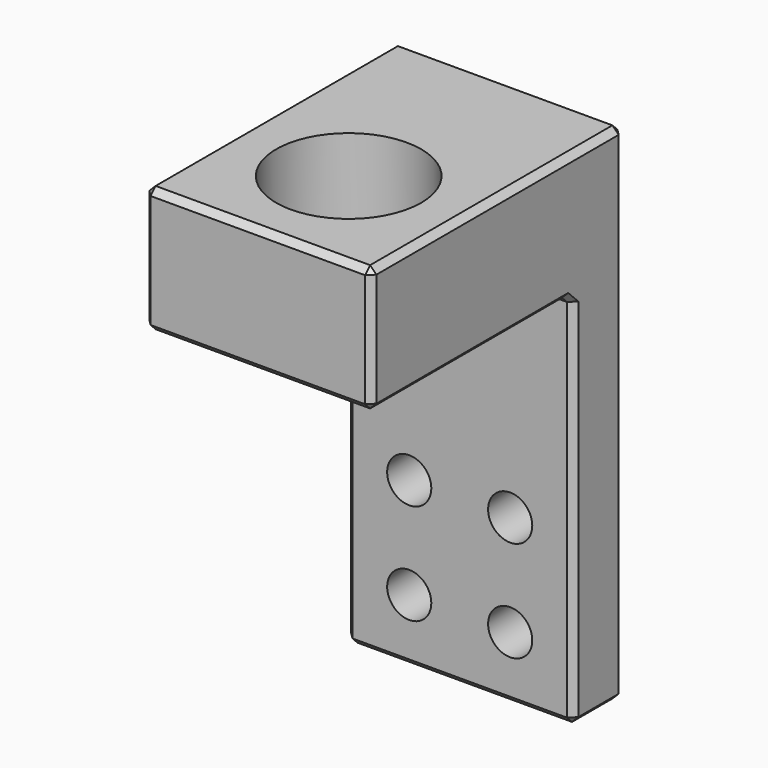
from build123d import *

# Parameters (mm, degrees)
F0_W     = 18
F0_H     = 40
F1_DEPTH = 5
F2_R     = 1.75
F3_DEPTH = 5
F4_W     = 18
F4_H     = 10
F5_DEPTH = 20
F6_R     = 5.75
F7_DEPTH = 10
F8_SIZE  = 0.5


with BuildPart() as f1:
    # F0 (on Front) → F1 (new body)
    with BuildSketch(Plane.XZ):
        Rectangle(F0_W, F0_H)
    extrude(amount=F1_DEPTH)

    # F2 (on face) → F3 (cut, through all)
    with BuildSketch(Plane.XZ.offset(5)):
        with Locations((-4, -15)):
            Circle(F2_R)
        with Locations((4, -15)):
            Circle(F2_R)
        with Locations((4, -7)):
            Circle(F2_R)
        with Locations((-4, -7)):
            Circle(F2_R)
    extrude(amount=-F3_DEPTH, mode=Mode.SUBTRACT)

    # F4 (on face) → F5 (join)
    with BuildSketch(Plane.XZ.offset(5)):
        with Locations((0, 15)):
            Rectangle(F4_W, F4_H)
    extrude(amount=F5_DEPTH)

    # F6 (on face) → F7 (cut, through all)
    with BuildSketch(Plane(origin=(0, 0, 10), x_dir=(1, 0, 0), z_dir=(0, 0, -1))):
        with Locations((0, 16)):
            Circle(F6_R)
    extrude(amount=-F7_DEPTH, mode=Mode.SUBTRACT)

    # F8
    f8_edges = [f1.edges().sort_by_distance(p)[0] for p in [
        (9, -15, 10),
        (-9, -15, 10),
        (0, -25, 10),
        (9, -25, 15),
        (-9, -25, 15),
        (0, -25, 20),
        (9, -12.5, 20),
        (9, -5, -5),
        (9, 0, 0),
        (0, 0, -20),
        (9, -2.5, -20),
        (0, -5, -20),
        (-9, -2.5, -20),
        (-9, -5, -5),
        (-9, 0, 0),
        (-9, -12.5, 20),
        (0, 0, 20),
        (0, -5, 10),
        (-5.75, -16, 10),
    ]]
    chamfer(f8_edges, length=F8_SIZE)


solid = f1.part
